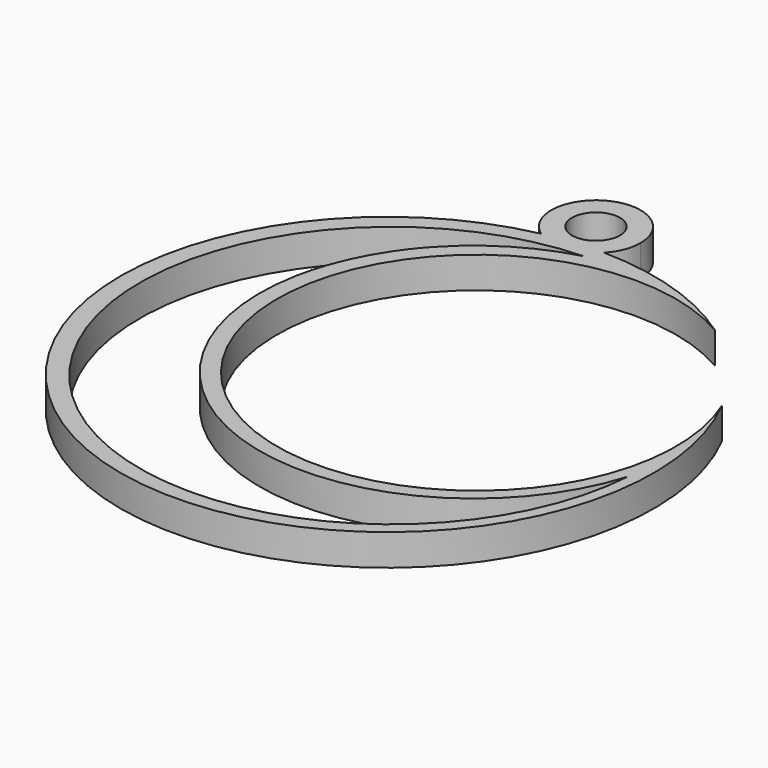
from build123d import *

# Parameters (mm, degrees)
F0_R     = 2.2923424458
F1_DEPTH = 3


with BuildPart() as f1:
    # F0 (on Top) → F1 (new body)
    with BuildSketch(Plane.XY):
        with BuildLine():
            ThreePointArc((-10.2711248099, 20.5369088401), (-7.4915699128, 20.9637629982), (-4.6818986464, 21.0815648356))
            ThreePointArc((-4.6818986464, 21.0815648356), (-3.8272791749, 22.4288026174), (-3.528424334, 23.9960007114))
            ThreePointArc((-3.528424334, 23.9960007114), (-9.7309143278, 27.7851076735), (-10.2711248099, 20.5369088401))
        make_face()
        with Locations((-7.7870538317, 23.9960007114)):
            Circle(F0_R, mode=Mode.SUBTRACT)
        with BuildLine():
            ThreePointArc((-10.2711248099, 20.5369088401), (-7.3740175906, 19.7574483332), (-4.6818986464, 21.0815648356))
            ThreePointArc((-4.6818986464, 21.0815648356), (-7.4915699128, 20.9637629982), (-10.2711248099, 20.5369088401))
        make_face()
        with BuildLine():
            ThreePointArc((17.6210584616, 7.2744961396), (-14.3609161452, -12.5373076401), (9.5862937371, 16.4779539925))
            ThreePointArc((9.5862937371, 16.4779539925), (2.7986315485, 19.8534789731), (-4.6818986464, 21.0815648356))
            ThreePointArc((-4.6818986464, 21.0815648356), (-7.3740175906, 19.7574483332), (-10.2711248099, 20.5369088401))
            ThreePointArc((-10.2711248099, 20.5369088401), (-15.9577589353, -27.3838876789), (17.6210584616, 7.2744961396))
        make_face()
        with BuildLine():
            ThreePointArc((19.3017870188, -6.0611376539), (-21.9723847969, -20.9981833276), (-5.4997475818, 19.687499851))
            ThreePointArc((-5.4997475818, 19.687499851), (-10.7496275746, 17.4612976364), (-15.179797656, 13.870920318))
            Line((-15.179797656, 13.870920318), (-15.6238832555, 13.3781558918))
            ThreePointArc((-15.6238832555, 13.3781558918), (-16.1982928509, 12.6896602283), (-16.7419419606, 11.9766256516))
            Line((-16.7419419606, 11.9766256516), (-17.2084446119, 11.3084951626))
            ThreePointArc((-17.2084446119, 11.3084951626), (-18.814029944, 8.43031492), (-19.9359758104, 5.3314339541))
            Line((-19.9359758104, 5.3314339541), (-20.2770843766, 3.8746306645))
            ThreePointArc((-20.2770843766, 3.8746306645), (-5.2009908425, -19.8687278573), (19.3017870188, -6.0611376539))
        make_face(mode=Mode.SUBTRACT)
    extrude(amount=F1_DEPTH)


solid = f1.part
